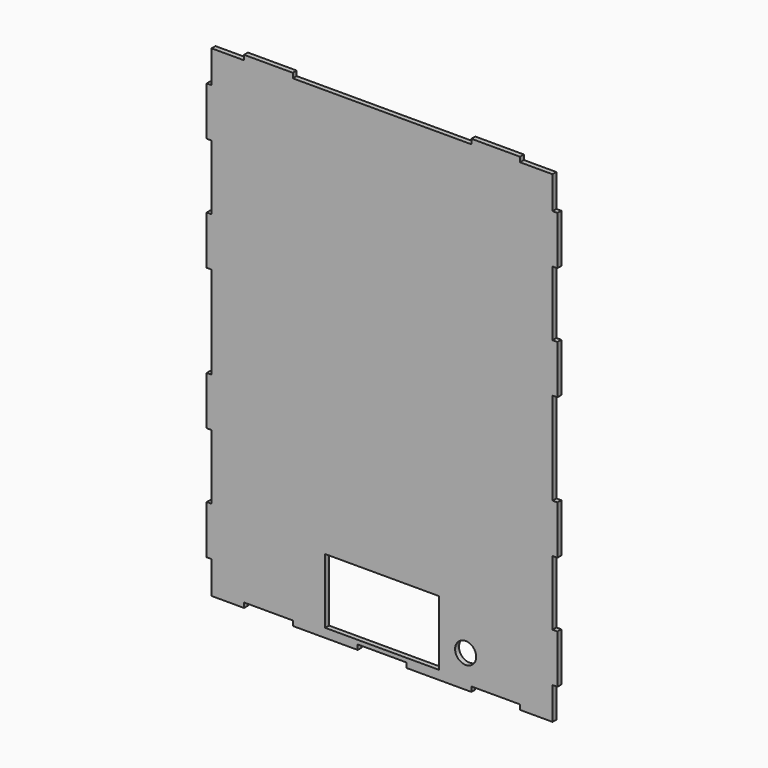
from build123d import *

# Parameters (mm, degrees)
F0_W     = 3
F0_H     = 30
F0_W_2   = 70
F0_H_2   = 40
F0_R     = 6.5
F0_W_3   = 30
F0_H_3   = 3
F1_DEPTH = 3


with BuildPart() as f1:
    # F0 (on Front) → F1 (new body)
    with BuildSketch(Plane.XZ):
        with Locations((-1.5, 35)):
            Rectangle(F0_W, F0_H)
        with Locations((-1.5, 105)):
            Rectangle(F0_W, F0_H)
        with Locations((-1.5, 192)):
            Rectangle(F0_W, F0_H)
        with Locations((-1.5, 262)):
            Rectangle(F0_W, F0_H)
        with Locations((211.5, 35)):
            Rectangle(F0_W, F0_H)
        with Locations((211.5, 105)):
            Rectangle(F0_W, F0_H)
        with Locations((211.5, 192)):
            Rectangle(F0_W, F0_H)
        with Locations((211.5, 262)):
            Rectangle(F0_W, F0_H)
        Polygon((0, 20), (0, 0), (20, 0), (20, 3), (50, 3), (50, 0), (90, 0), (90, 3), (120, 3), (120, 0), (160, 0), (160, 3), (190, 3), (190, 0), (210, 0), (210, 20), (210, 50), (210, 90), (210, 120), (210, 177), (210, 207), (210, 247), (210, 277), (210, 297), (190, 297), (160, 297), (50, 297), (20, 297), (0, 297), (0, 277), (0, 247), (0, 207), (0, 177), (0, 120), (0, 90), (0, 50), align=None)
        with Locations((105, 25.5)):
            Rectangle(F0_W_2, F0_H_2, mode=Mode.SUBTRACT)
        with Locations((156.5, 20)):
            Circle(F0_R, mode=Mode.SUBTRACT)
        with Locations((175, 298.5)):
            Rectangle(F0_W_3, F0_H_3)
        with Locations((35, 298.5)):
            Rectangle(F0_W_3, F0_H_3)
    extrude(amount=F1_DEPTH)


solid = f1.part
